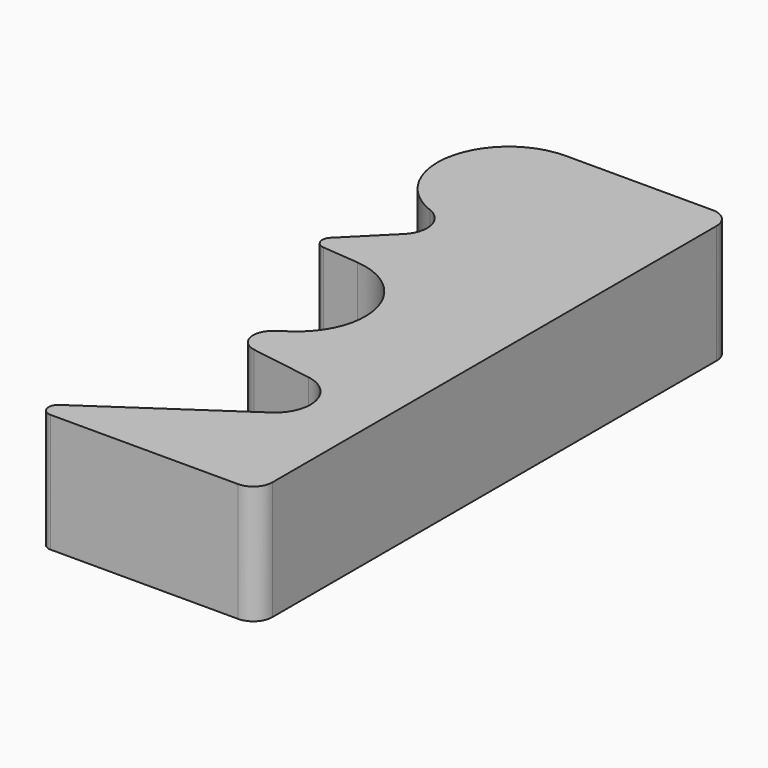
from build123d import *

# Parameters (mm, degrees)
F1_DEPTH = 1.5875


with BuildPart() as f1:
    # F0 (on Top) → F1 (new body, symmetric)
    with BuildSketch(Plane.XY):
        with BuildLine():
            Line((-5.524762, 0), (-0.508, 0))
            ThreePointArc((-0.508, 0), (-0.14879, 0.14879), (0, 0.508))
            Line((0, 0.508), (0, 15.367))
            ThreePointArc((0, 15.367), (-0.14879, 15.72621), (-0.508, 15.875))
            Line((-0.508, 15.875), (-4.445, 15.875))
            ThreePointArc((-4.445, 15.875), (-6.318154, 14.316871), (-5.127144, 12.191319))
            ThreePointArc((-5.127144, 12.191319), (-4.677356, 11.664932), (-4.873952, 11.001048))
            Line((-4.873952, 11.001048), (-5.964836, 9.910164))
            ThreePointArc((-5.964836, 9.910164), (-6.023912, 9.643686), (-5.807368, 9.477526))
            Line((-5.807368, 9.477526), (-4.828483, 9.391884))
            ThreePointArc((-4.828483, 9.391884), (-3.240143, 8.070876), (-3.921246, 6.120495))
            Line((-3.921246, 6.120495), (-4.264111, 5.871389))
            ThreePointArc((-4.264111, 5.871389), (-4.45948, 5.341818), (-4.044985, 4.958663))
            Line((-4.044985, 4.958663), (-2.379395, 4.694859))
            ThreePointArc((-2.379395, 4.694859), (-1.597478, 3.960691), (-1.992111, 2.963365))
            Line((-1.992111, 2.963365), (-5.667589, 0.464039))
            ThreePointArc((-5.667589, 0.464039), (-5.767524, 0.17928), (-5.524762, 0))
        make_face()
    extrude(amount=F1_DEPTH, both=True)


solid = f1.part
